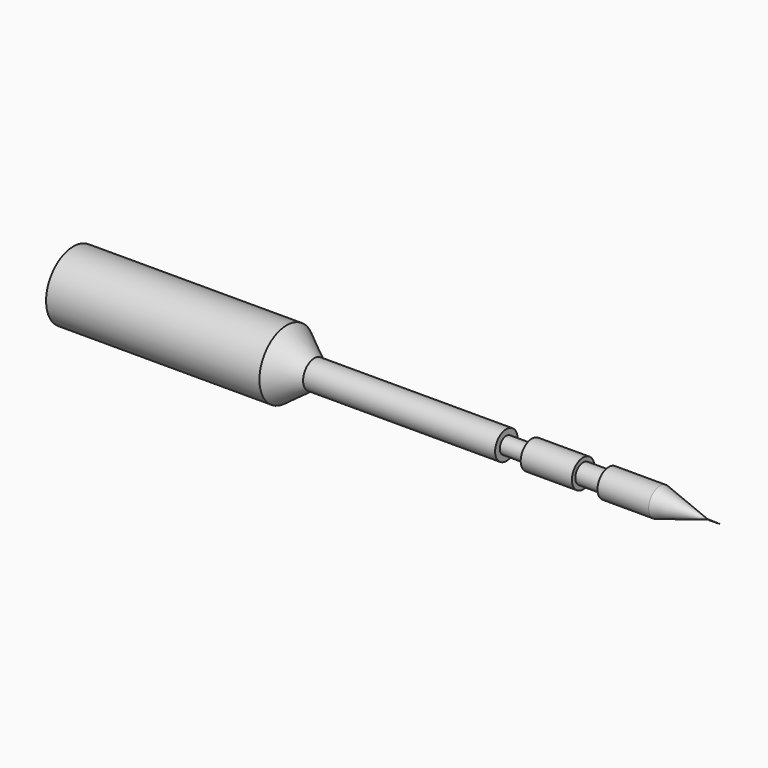
from build123d import *


with BuildPart() as f1:
    # F0 (on Front) → F1 (revolve)
    with BuildSketch(Plane.XZ):
        Polygon((4.980334, 0), (3.389877, 0), (3.480334, -0.026274), align=None)
        Polygon((-71.016478, 4), (-71.016478, 0), (3.389877, 0), (-2.281533, 1.647314), (-8.281533, 1.647314), (-8.281533, 1.147314), (-11.281533, 1.147314), (-11.281533, 1.647314), (-17.281533, 1.647314), (-17.281533, 0.959492), (-20.281533, 0.959492), (-20.281533, 1.647314), (-42.781533, 1.647314), (-46.016478, 4), align=None)
    revolve(axis=Axis((-33.018072, 0, 0), (-1, 0, 0)))


with BuildPart() as f2:
    # F0 (on Front) → F2 (revolve)
    with BuildSketch(Plane.XZ):
        Polygon((4.980334, 0), (3.389877, 0), (3.480334, -0.026274), align=None)
        Polygon((-71.016478, 4), (-71.016478, 0), (3.389877, 0), (-2.281533, 1.647314), (-8.281533, 1.647314), (-8.281533, 1.147314), (-11.281533, 1.147314), (-11.281533, 1.647314), (-17.281533, 1.647314), (-17.281533, 0.959492), (-20.281533, 0.959492), (-20.281533, 1.647314), (-42.781533, 1.647314), (-46.016478, 4), align=None)
    revolve(axis=Axis((-46.016478, 0, 0), (-1, 0, 0)))


solid = Compound([f1.part, f2.part])
